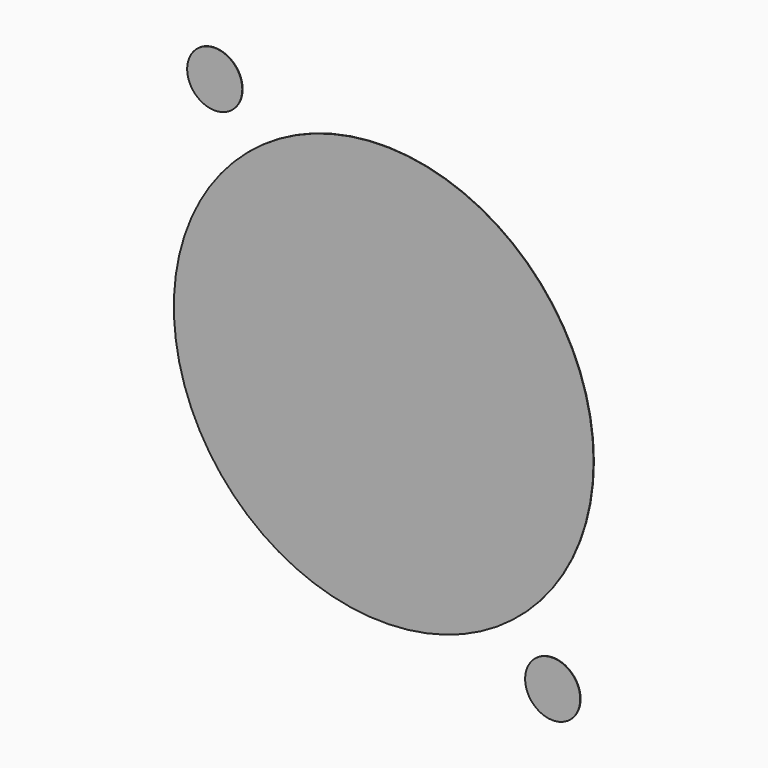
from build123d import *

# Parameters (mm, degrees)
F0_R     = 11.7983
F0_R_2   = 1.5494
F1_DEPTH = 0.0254


with BuildPart() as f1:
    # F0 (on Front) → F1 (new body)
    with BuildSketch(Plane.XZ):
        Circle(F0_R)
        with Locations((-9.4996, 12.0015)):
            Circle(F0_R_2)
        with Locations((9.4996, -12.0015)):
            Circle(F0_R_2)
    extrude(amount=F1_DEPTH)


solid = f1.part
